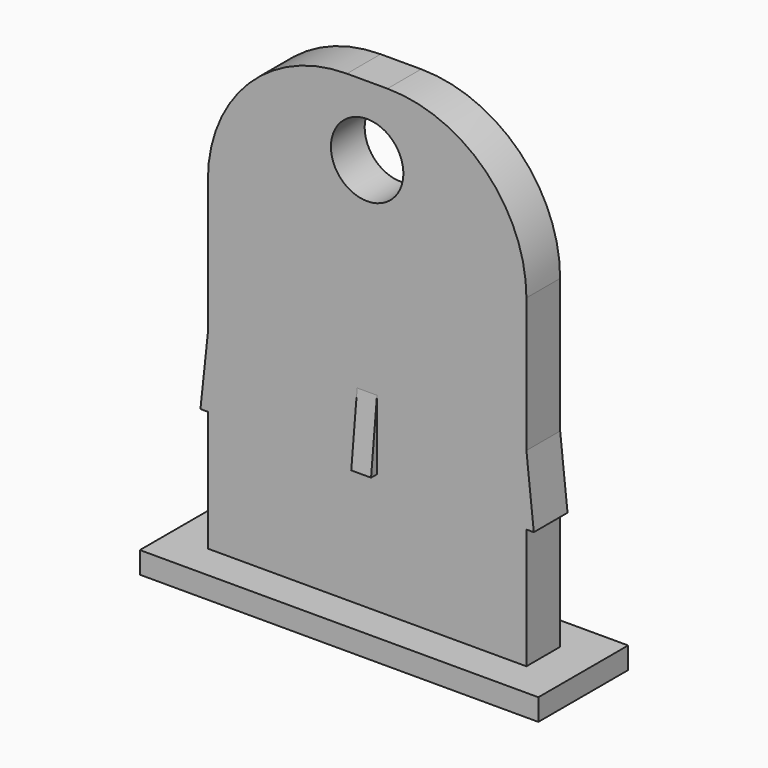
from build123d import *

# Parameters (mm, degrees)
F1_DEPTH       = 2.38125
F2_W           = 34.925
F2_H           = 4.6228
F3_DEPTH       = 50.8
F4_R           = 15.24
F5_R           = 3.96875
F6_DEPTH       = 8.4639625
F8_DEPTH       = 4.6228
F11_DEPTH      = 1.0795
F11_DEPTH_BACK = 1.0922


with BuildPart() as f1:
    # F0 (on Top) → F1 (new body)
    with BuildSketch(Plane.XY):
        Polygon((-21.844, -6.1515625), (21.844, -6.1515625), (21.844, 6.1515625), (-21.844, 6.1515625), align=None)
    extrude(amount=F1_DEPTH)

    # F2 (on face) → F3 (join)
    with BuildSketch(Plane.XY.offset(2.38125)):
        Rectangle(F2_W, F2_H)
    extrude(amount=F3_DEPTH)

    # F4
    f4_edges = [f1.edges().sort_by_distance(p)[0] for p in [
        (-17.4625, 0, 53.18125),
        (17.4625, 0, 53.18125),
    ]]
    fillet(f4_edges, radius=F4_R)

    # F5 (on face) → F6 (cut, through all)
    with BuildSketch(Plane(origin=(0, 2.3114, 0), x_dir=(-1, 0, 0), z_dir=(0, 1, 0))):
        with Locations((0, 45.56125)):
            Circle(F5_R)
    extrude(amount=-F6_DEPTH, mode=Mode.SUBTRACT)

    # F7 (on face) → F8 (join, through all)
    with BuildSketch(Plane.XZ.offset(2.3114)):
        Polygon((18.2753, 15.58925), (17.4625, 23.20925), (17.4625, 15.58925), align=None)
    extrude(amount=-F8_DEPTH)

    # F9: F1 across plane


with BuildPart() as f1_1:
    add(f1.part)
    add(f1.part.mirror(Plane.YZ))

    # F10 (on Right) → F11 (join, two sides)
    with BuildSketch(Plane.YZ) as f11_sk:
        Polygon((-3.1242, 15.58925), (-2.3114, 15.58925), (-2.3114, 23.20925), align=None)
        Polygon((3.1242, 15.58925), (2.3114, 23.20925), (2.3114, 15.58925), align=None)
    extrude(amount=F11_DEPTH)
    extrude(f11_sk.sketch, amount=-F11_DEPTH_BACK)


solid = f1_1.part
